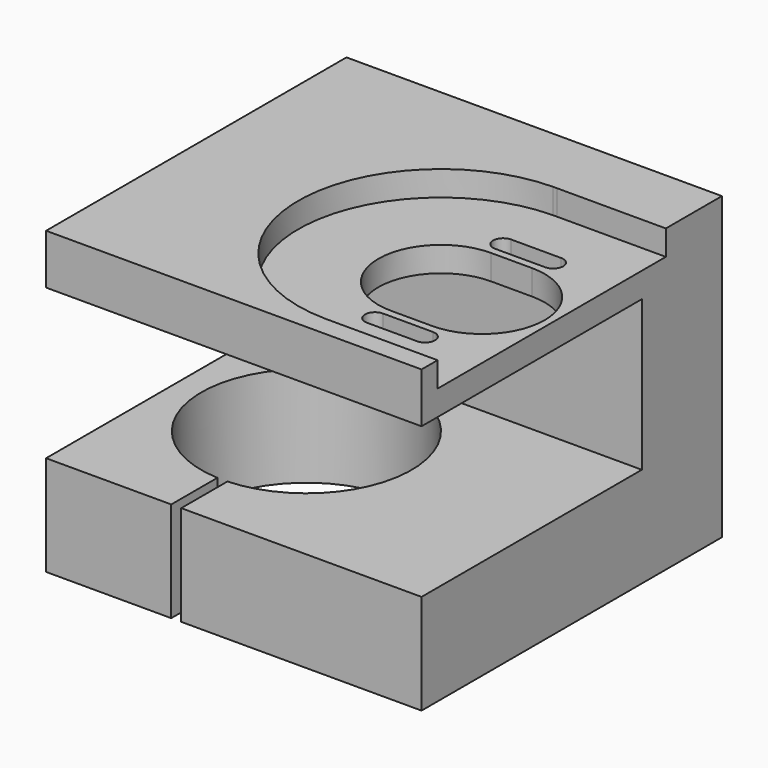
from build123d import *

# Parameters (mm, degrees)
F0_W      = 75
F0_H      = 75
F1_DEPTH  = 60
F2_W      = 55
F2_H      = 30
F3_DEPTH  = 75.001
F5_DEPTH  = 25
F6_R      = 2.1
F7_DEPTH  = 40
F8_R      = 4.1
F9_DEPTH  = 20
F11_DEPTH = 25
F13_DEPTH = 5
F14_R     = 2.1
F15_DEPTH = 15


with BuildPart() as f1:
    # F0 (on Top) → F1 (new body)
    with BuildSketch(Plane.XY):
        Rectangle(F0_W, F0_H)
    extrude(amount=F1_DEPTH)

    # F2 (on face) → F3 (cut, through all)
    with BuildSketch(Plane(origin=(-37.5, 0, 0), x_dir=(0, -1, 0), z_dir=(-1, 0, 0))):
        with Locations((10, 35)):
            Rectangle(F2_W, F2_H)
    extrude(amount=-F3_DEPTH, mode=Mode.SUBTRACT)

    # F4 (on face) → F5 (cut)
    with BuildSketch(Plane(origin=(0, 0, 0), x_dir=(1, 0, 0), z_dir=(0, 0, -1))):
        with BuildLine():
            Line((-12.5, 37.5), (-12.5, 25.976177))
            ThreePointArc((-12.5, 25.976177), (-11.5, -16), (-10.5, 25.976177))
            Line((-10.5, 25.976177), (-10.5, 37.5))
            Line((-10.5, 37.5), (-12.5, 37.5))
        make_face()
    extrude(amount=-F5_DEPTH, mode=Mode.SUBTRACT)

    # F6 (on face) → F7 (cut)
    with BuildSketch(Plane(origin=(-37.5, 0, 0), x_dir=(0, -1, 0), z_dir=(-1, 0, 0))):
        with Locations((32.5, 15)):
            Circle(F6_R)
        with Locations((32.5, 5)):
            Circle(F6_R)
    extrude(amount=-F7_DEPTH, mode=Mode.SUBTRACT)

    # F8 (on face) → F9 (cut)
    with BuildSketch(Plane(origin=(-37.5, 0, 0), x_dir=(0, -1, 0), z_dir=(-1, 0, 0))):
        with Locations((32.5, 15)):
            Circle(F8_R)
        with Locations((32.5, 5)):
            Circle(F8_R)
    extrude(amount=-F9_DEPTH, mode=Mode.SUBTRACT)

    # F10 (on face) → F11 (cut)
    with BuildSketch(Plane.XY.offset(60)):
        with BuildLine():
            ThreePointArc((15, 13), (13, 11), (15, 9))
            Line((15, 9), (25, 9))
            ThreePointArc((25, 9), (27, 11), (25, 13))
            Line((25, 13), (15, 13))
        make_face()
        with BuildLine():
            ThreePointArc((15, -19), (13, -21), (15, -23))
            Line((15, -23), (25, -23))
            ThreePointArc((25, -23), (27, -21), (25, -19))
            Line((25, -19), (15, -19))
        make_face()
        with BuildLine():
            Line((15.383265, -17.5), (23.597296, -17.5))
            ThreePointArc((23.597296, -17.5), (36.097296, -5), (23.597296, 7.5))
            Line((23.597296, 7.5), (15.383265, 7.5))
            ThreePointArc((15.383265, 7.5), (2.883265, -5), (15.383265, -17.5))
        make_face()
    extrude(amount=-F11_DEPTH, mode=Mode.SUBTRACT)

    # F12 (on face) → F13 (cut)
    with BuildSketch(Plane.XY.offset(60)):
        with BuildLine():
            Line((15, 23.497423), (15.76653, 23.497423))
            ThreePointArc((15.76653, 23.497423), (15.383265, 23.5), (15, 23.497423))
        make_face()
        with BuildLine():
            Line((72, 23.497423), (15.76653, 23.497423))
            Line((15.76653, 23.497423), (15, 23.497423))
            ThreePointArc((15, 23.497423), (-13.116735, -5), (15, -33.497423))
            Line((15, -33.497423), (15, -33.502577))
            Line((15, -33.502577), (72, -33.502577))
            Line((72, -33.502577), (72, 23.497423))
        make_face()
    extrude(amount=-F13_DEPTH, mode=Mode.SUBTRACT)

    # F14 (on face) → F15 (cut)
    with BuildSketch(Plane(origin=(0, 37.5, 0), x_dir=(-1, 0, 0), z_dir=(0, 1, 0))):
        with Locations((-30, 50)):
            Circle(F14_R)
        with Locations((30, 50)):
            Circle(F14_R)
        with Locations((30, 10)):
            Circle(F14_R)
        with Locations((-30, 10)):
            Circle(F14_R)
    extrude(amount=-F15_DEPTH, mode=Mode.SUBTRACT)


solid = f1.part
